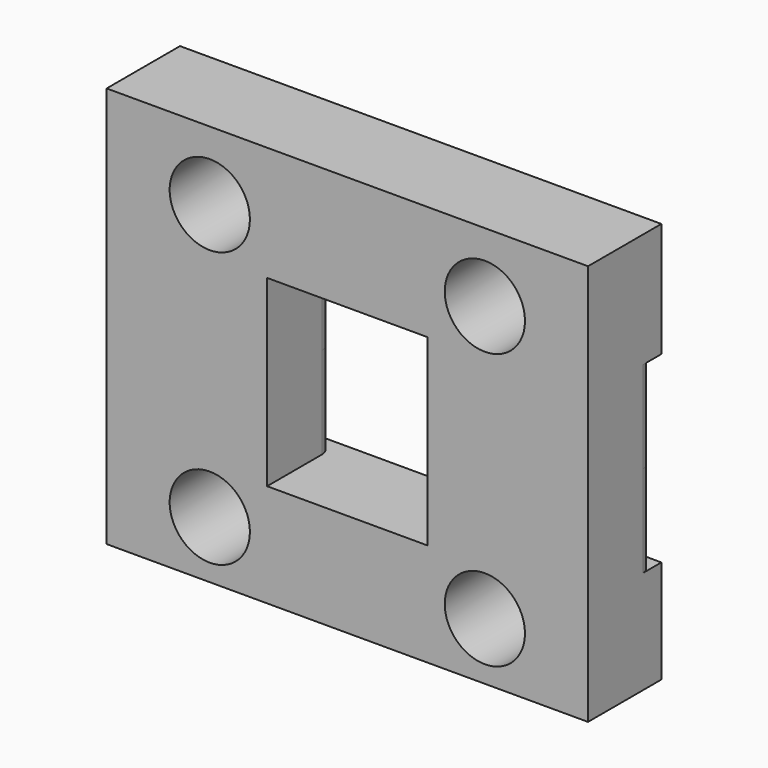
from build123d import *

# Parameters (mm, degrees)
F1_W      = 21
F1_H      = 4
F2_DEPTH  = 17.5
F3_R      = 1.75
F4_DEPTH  = 4.001
F5_W      = 21
F5_H      = 1
F6_DEPTH  = 4
F7_R      = 0.5
F8_DEPTH  = 4
F9_W      = 7
F9_H      = 6.82205
F10_DEPTH = 4


with BuildPart() as f2:
    # F1 (on Top) → F2 (new body)
    with BuildSketch(Plane.XY):
        Rectangle(F1_W, F1_H)
    extrude(amount=F2_DEPTH)

    # F3 (on face) → F4 (cut, through all)
    with BuildSketch(Plane.XZ.offset(2)):
        with Locations((-6, 14.5)):
            Circle(F3_R)
        with Locations((6, 14.5)):
            Circle(F3_R)
        with Locations((6, 2.5)):
            Circle(F3_R)
        with Locations((-6, 2.5)):
            Circle(F3_R)
    extrude(amount=-F4_DEPTH, mode=Mode.SUBTRACT)

    # F5 (on offset) → F6 (cut, symmetric)
    with BuildSketch(Plane.XY.offset(8.5)):
        with Locations((0, 1.5)):
            Rectangle(F5_W, F5_H)
    extrude(amount=F6_DEPTH, both=True, mode=Mode.SUBTRACT)

    # F7 (on offset) → F8 (join, symmetric)
    with BuildSketch(Plane.XY.offset(8.5)):
        with Locations((10, 1)):
            Circle(F7_R)
        with Locations((8, 1)):
            Circle(F7_R)
        with Locations((6, 1)):
            Circle(F7_R)
        with Locations((4, 1)):
            Circle(F7_R)
        with Locations((2, 1)):
            Circle(F7_R)
        with Locations((0, 1)):
            Circle(F7_R)
        with Locations((-2, 1)):
            Circle(F7_R)
        with Locations((-4, 1)):
            Circle(F7_R)
        with Locations((-6, 1)):
            Circle(F7_R)
        with Locations((-8, 1)):
            Circle(F7_R)
        with Locations((-10, 1)):
            Circle(F7_R)
    extrude(amount=F8_DEPTH, both=True)

    # F9 (on offset) → F10 (cut, symmetric)
    with BuildSketch(Plane.XY.offset(8.5)):
        Rectangle(F9_W, F9_H)
    extrude(amount=F10_DEPTH, both=True, mode=Mode.SUBTRACT)


solid = f2.part
